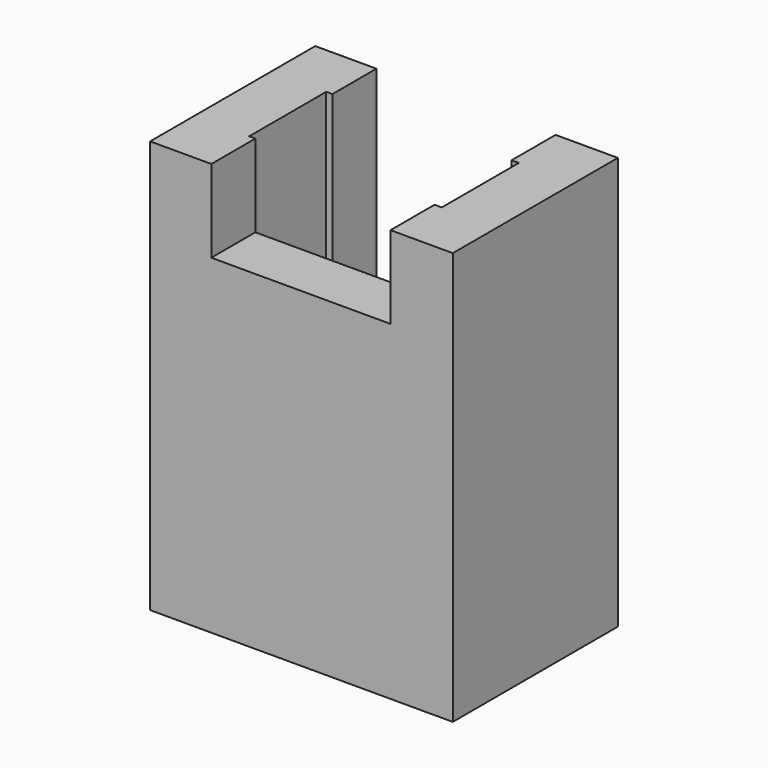
from build123d import *

# Parameters (mm, degrees)
F0_W     = 7.5
F0_H     = 15
F1_DEPTH = 11
F2_W     = 7
F2_H     = 3.5
F3_DEPTH = 20
F4_W     = 9
F4_H     = 5
F5_DEPTH = 4
F6_W     = 6.512857
F6_H     = 3
F7_DEPTH = 25
F8_W     = 6.512857
F8_H     = 7
F9_DEPTH = 25


with BuildPart() as f1:
    # F0 (on Right) → F1 (new body)
    with BuildSketch(Plane.YZ):
        Rectangle(F0_W, F0_H)
    extrude(amount=F1_DEPTH)

    # F2 (on face) → F3 (cut)
    with BuildSketch(Plane.XY.offset(7.5)):
        with Locations((5.5, 0)):
            Rectangle(F2_W, F2_H)
    extrude(amount=-F3_DEPTH, mode=Mode.SUBTRACT)

    # F4 (on face) → F5 (cut)
    with BuildSketch(Plane(origin=(0, 0, -7.5), x_dir=(1, 0, 0), z_dir=(0, 0, -1))):
        with Locations((5.5, 0)):
            Rectangle(F4_W, F4_H)
    extrude(amount=-F5_DEPTH, mode=Mode.SUBTRACT)

    # F6 (on face) → F7 (cut)
    with BuildSketch(Plane.XZ.offset(3.75)):
        with Locations((5.480695, 6)):
            Rectangle(F6_W, F6_H)
    extrude(amount=-F7_DEPTH, mode=Mode.SUBTRACT)

    # F8 (on Front) → F9 (cut)
    with BuildSketch(Plane.XZ):
        with Locations((5.480695, 1)):
            Rectangle(F8_W, F8_H)
    extrude(amount=-F9_DEPTH, mode=Mode.SUBTRACT)


solid = f1.part
